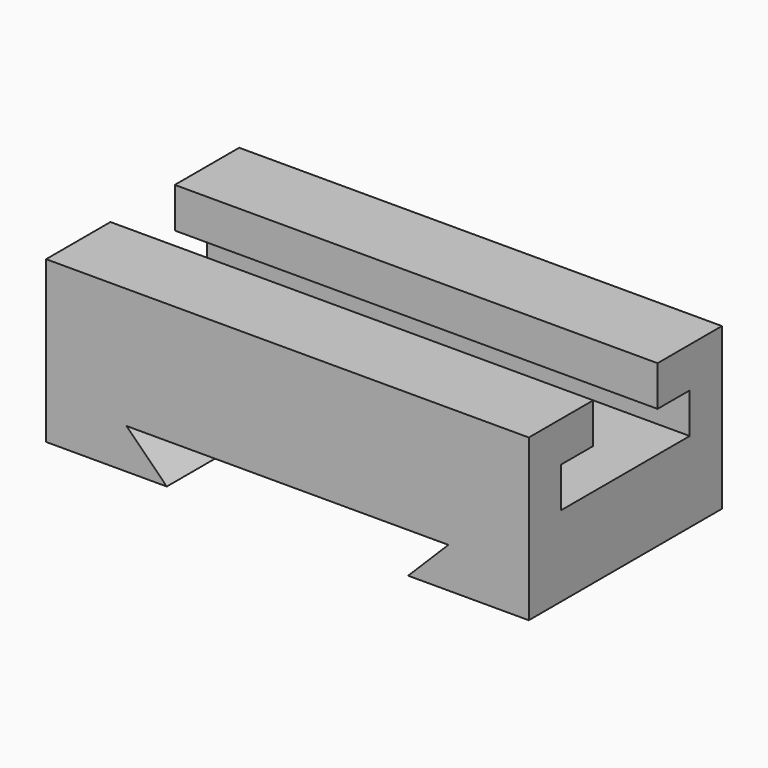
from build123d import *

# Parameters (mm, degrees)
F1_DEPTH = 38.1
F3_DEPTH = 152.401


with BuildPart() as f1:
    # F0 (on Front) → F1 (new body, symmetric)
    with BuildSketch(Plane.XZ):
        Polygon((76.2, -25.4), (76.2, 25.4), (-76.2, 25.4), (-76.2, -25.4), (-38.1, -25.4), (-50.8, -12.7), (50.8, -12.7), (38.1, -25.4), align=None)
    extrude(amount=F1_DEPTH, both=True)

    # F2 (on face) → F3 (cut, through all)
    with BuildSketch(Plane.YZ.offset(76.2)):
        Polygon((12.7, 12.7), (12.7, 25.4), (-12.694698, 25.4), (-12.694698, 12.7), (-25.4, 12.7), (-25.4, 0), (25.4, 0), (25.4, 12.7), align=None)
    extrude(amount=-F3_DEPTH, mode=Mode.SUBTRACT)


solid = f1.part
